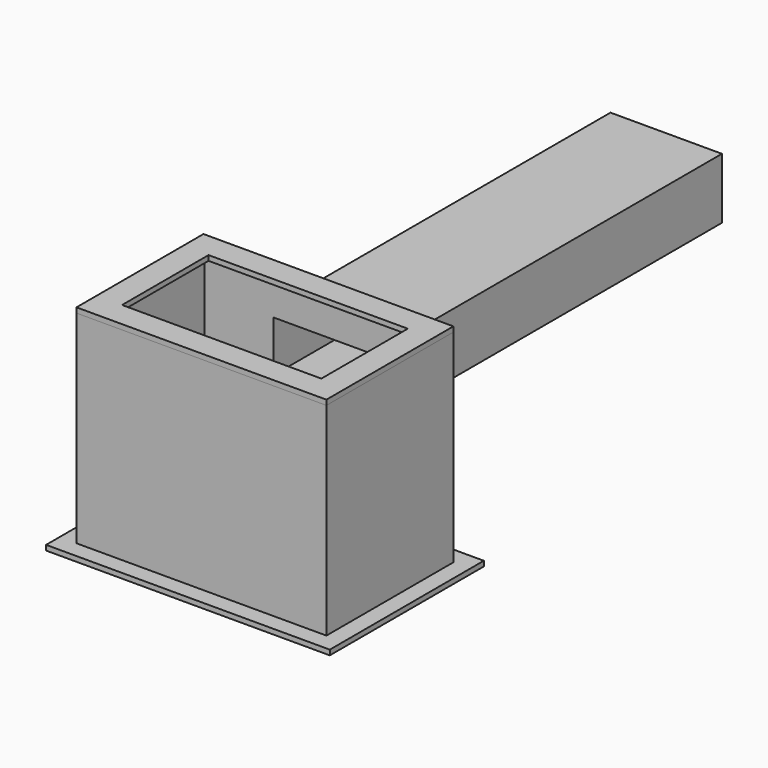
from build123d import *

# Parameters (mm, degrees)
F0_W     = 148
F0_H     = 94
F0_W_2   = 118
F0_H_2   = 64
F1_DEPTH = 3
F2_W     = 148
F2_H     = 94
F2_W_2   = 142
F2_H_2   = 88
F3_DEPTH = 120
F4_W     = 60
F4_H     = 30
F5_DEPTH = 4
F6_W     = 168
F6_H     = 114
F6_W_2   = 148
F6_H_2   = 94
F6_W_3   = 142
F6_H_3   = 88
F7_DEPTH = 3
F8_W     = 66
F8_H     = 36
F8_W_2   = 60
F8_H_2   = 30
F9_DEPTH = 250


with BuildPart() as f1:
    # F0 (on Top) → F1 (new body)
    with BuildSketch(Plane.XY):
        Rectangle(F0_W, F0_H)
        Rectangle(F0_W_2, F0_H_2, mode=Mode.SUBTRACT)
    extrude(amount=F1_DEPTH)


with BuildPart() as f3:
    # F2 (on face) → F3 (new body)
    with BuildSketch(Plane(origin=(0, 0, 0), x_dir=(1, 0, 0), z_dir=(0, 0, -1))):
        Rectangle(F2_W, F2_H)
        Rectangle(F2_W_2, F2_H_2, mode=Mode.SUBTRACT)
    extrude(amount=F3_DEPTH)

    # F4 (on face) → F5 (cut)
    with BuildSketch(Plane(origin=(0, 47, 0), x_dir=(-1, 0, 0), z_dir=(0, 1, 0))):
        with Locations((0, -40)):
            Rectangle(F4_W, F4_H)
    extrude(amount=-F5_DEPTH, mode=Mode.SUBTRACT)

    # F8 (on face) → F9 (join)
    with BuildSketch(Plane(origin=(0, 47, 0), x_dir=(-1, 0, 0), z_dir=(0, 1, 0))):
        with Locations((0, -40)):
            Rectangle(F8_W, F8_H)
        with Locations((0, -40)):
            Rectangle(F8_W_2, F8_H_2, mode=Mode.SUBTRACT)
    extrude(amount=F9_DEPTH)


with BuildPart() as f7:
    # F6 (on face) → F7 (new body)
    with BuildSketch(Plane(origin=(0, 0, -120), x_dir=(1, 0, 0), z_dir=(0, 0, -1))):
        Rectangle(F6_W, F6_H)
        Rectangle(F6_W_2, F6_H_2, mode=Mode.SUBTRACT)
        Rectangle(F6_W_2, F6_H_2)
        Rectangle(F6_W_3, F6_H_3, mode=Mode.SUBTRACT)
        Rectangle(F6_W_3, F6_H_3)
    extrude(amount=F7_DEPTH)


solid = Compound([f1.part, f3.part, f7.part])
